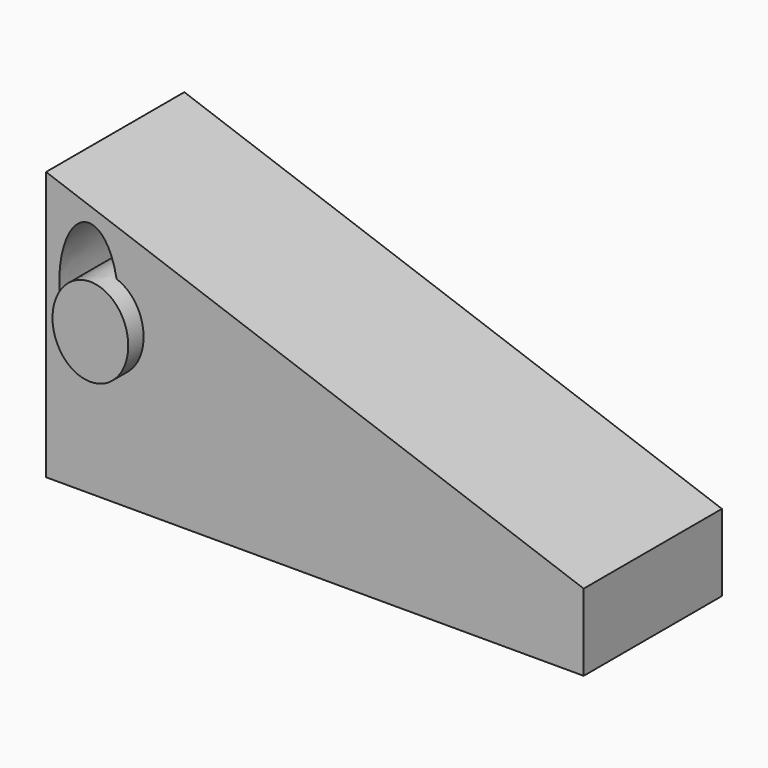
from build123d import *

# Parameters (mm, degrees)
F1_DEPTH = 20
F3_DEPTH = 25
F4_DEPTH = 10
F5_DEPTH = 25


with BuildPart() as f1:
    # F0 (on Front) → F1 (new body)
    with BuildSketch(Plane.XZ):
        Polygon((0, 70), (0, 0), (140, 0), (140, 20), align=None)
        with BuildLine():
            add(Edge.make_bspline(
                [(11.1326770857, 30.2367769182), (24.4411659607, 30.2367769182), (17.7869215232, 54.0230367333), (11.1326770857, 77.8092965484), (4.4784326482, 54.0230367333), (-2.1758117893, 30.2367769182), (11.1326770857, 30.2367769182)],
                knots=[0, 0, 0, 2.0943951024, 2.0943951024, 4.1887902048, 4.1887902048, 6.2831853072, 6.2831853072, 6.2831853072], degree=2, weights=[1, 0.5, 1, 0.5, 1, 0.5, 1]))
        make_face(mode=Mode.SUBTRACT)
    extrude(amount=F1_DEPTH)

    # F2 (on Front) → F3 (join)
    with BuildSketch(Plane.XZ):
        with BuildLine():
            add(Edge.make_bspline(
                [(15.5354021117, 28.9658699185), (32.6115375413, 28.9658699185), (24.0734698265, 46.1759930477), (15.5354021117, 63.3861161768), (6.9973343969, 46.1759930477), (-1.5407333179, 28.9658699185), (15.5354021117, 28.9658699185)],
                knots=[0, 0, 0, 2.0943951024, 2.0943951024, 4.1887902048, 4.1887902048, 6.2831853072, 6.2831853072, 6.2831853072], degree=2, weights=[1, 0.5, 1, 0.5, 1, 0.5, 1]))
        make_face()
    extrude(amount=F3_DEPTH)

    # F4 (add): a face of the model
    f4_faces = [f1.faces().sort_by_distance(p)[0] for p in [
        (15.5354021117, -25, 40.4671142495),
    ]]
    extrude(f4_faces, amount=-F4_DEPTH)

    # F5 (add): a face of the model
    f5_faces = [f1.faces().sort_by_distance(p)[0] for p in [
        (58.3197071439, 0, 24.0820721981),
    ]]
    extrude(f5_faces, amount=F5_DEPTH)


solid = f1.part
